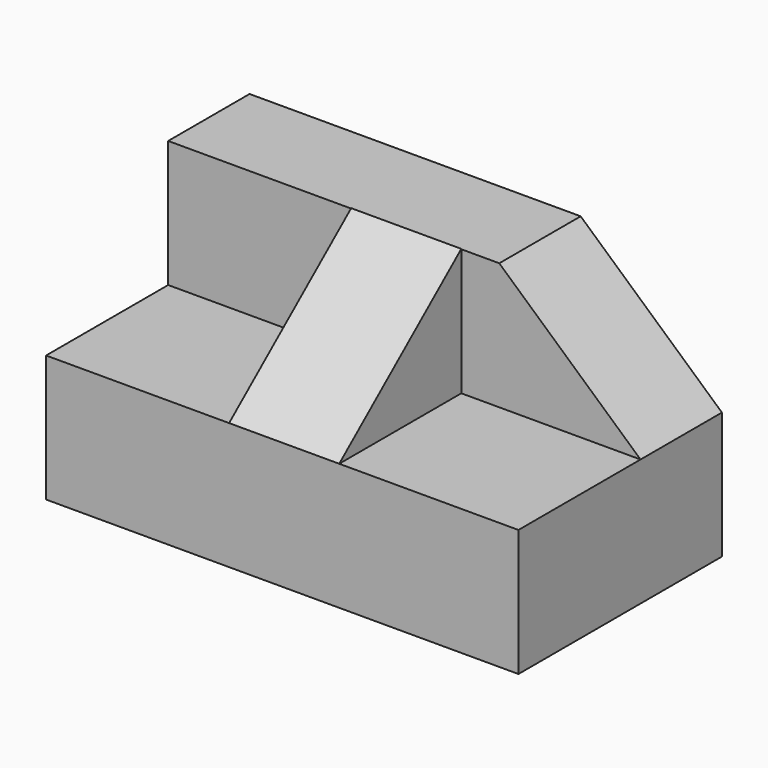
from build123d import *

# Parameters (mm, degrees)
F0_W     = 117.9294288158
F0_H     = 31.6627249122
F1_DEPTH = 63.5
F2_DEPTH = 25.4
F3_W     = 27.4915890768
F3_H     = 38.1
F4_DEPTH = 31.75
F6_DEPTH = 73.1855023111


with BuildPart() as f1:
    # F0 (on Front) → F1 (new body)
    with BuildSketch(Plane.XZ):
        with Locations((0, -15.8313624561)):
            Rectangle(F0_W, F0_H)
    extrude(amount=F1_DEPTH)

    # F0 (on Front) → F2 (join)
    with BuildSketch(Plane.XZ):
        Polygon((58.9647144079, 0), (23.699644953, 31.6627249122), (-58.9647144079, 31.6627249122), (-58.9647144079, 0), align=None)
    extrude(amount=F2_DEPTH)

    # F3 (on face) → F4 (join)
    with BuildSketch(Plane.XY):
        with Locations((0.4739933647, -44.45)):
            Rectangle(F3_W, F3_H)
    extrude(amount=F4_DEPTH)

    # F5 (on face) → F6 (cut, through all)
    with BuildSketch(Plane.YZ.offset(14.2197879031)):
        Polygon((-63.5, 0), (-25.4, 31.75), (-63.5, 31.75), align=None)
    extrude(amount=-F6_DEPTH, mode=Mode.SUBTRACT)


solid = f1.part
